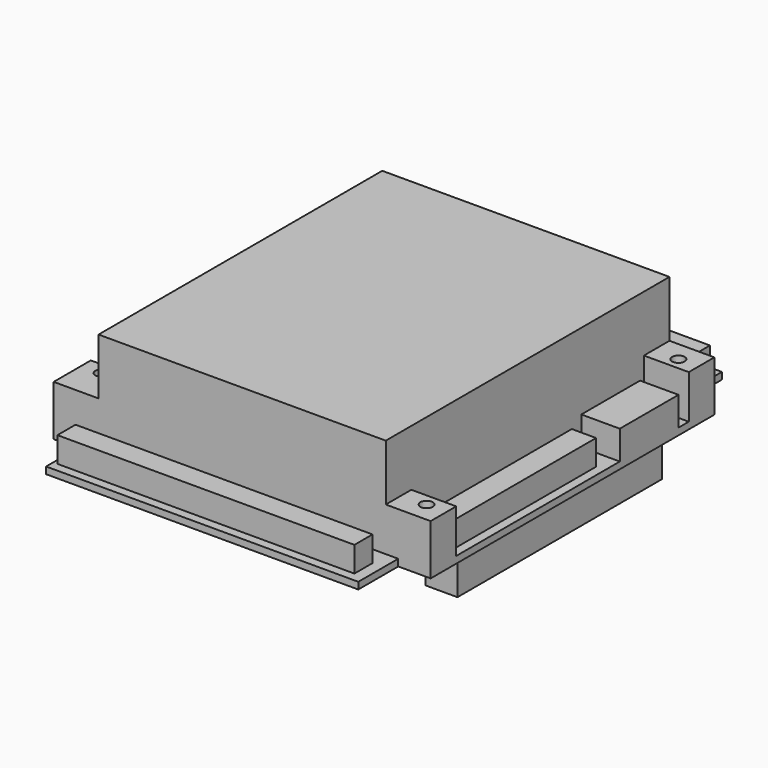
from build123d import *

# Parameters (mm, degrees)
F0_W      = 8.235
F0_H      = 90.17
F0_W_2    = 79.38
F0_H_2    = 12.7
F1_DEPTH  = 1.73
F2_W      = 8.13
F2_H      = 65.02
F3_DEPTH  = 10.42
F4_W      = 2.38
F4_H      = 13.8
F4_H_2    = 7.45
F4_W_2    = 65.44
F4_H_3    = 17.54
F5_DEPTH  = 5.18
F6_W      = 9.3
F6_H      = 30
F7_DEPTH  = 5.58
F8_W      = 73.03
F8_H      = 90.17
F9_DEPTH  = 25.4
F10_W     = 11.41
F10_H     = 8.13
F10_H_2   = 10.54
F10_H_3   = 11.81
F11_DEPTH = 11.1
F12_W     = 75.51
F12_H     = 5.75
F13_DEPTH = 6.43
F14_W     = 5.72
F14_H     = 61.39
F15_DEPTH = 5.57
F16_W     = 77.07
F16_H     = 5.75
F17_DEPTH = 6.43
F18_W     = 6.17
F18_H     = 46.82
F19_DEPTH = 6.43
F20_W     = 9.78
F20_H     = 18.65
F21_DEPTH = 7.35
F22_R     = 1.6
F23_DEPTH = 27.131


with BuildPart() as f1:
    # F0 (on Top) → F1 (new body)
    with BuildSketch(Plane.XY):
        with Locations((43.8075, 0)):
            Rectangle(F0_W, F0_H)
        with Locations((0, -51.435)):
            Rectangle(F0_W_2, F0_H_2)
        Rectangle(F0_W_2, F0_H)
        with Locations((-43.8075, 0)):
            Rectangle(F0_W, F0_H)
        with Locations((0, 51.435)):
            Rectangle(F0_W_2, F0_H_2)
    extrude(amount=F1_DEPTH)

    # F2 (on face) → F3 (join)
    with BuildSketch(Plane(origin=(0, 0, 0), x_dir=(1, 0, 0), z_dir=(0, 0, -1))):
        with Locations((40.56, -0.075)):
            Rectangle(F2_W, F2_H)
    extrude(amount=F3_DEPTH)

    # F4 (on face) → F5 (join)
    with BuildSketch(Plane(origin=(0, 0, 0), x_dir=(1, 0, 0), z_dir=(0, 0, -1))):
        with Locations((-36.21, -39.8490008428)):
            Rectangle(F4_W, F4_H)
        with Locations((-36.21, -50.4740008428)):
            Rectangle(F4_W, F4_H_2)
        with Locations((-2.3, -50.4740008428)):
            Rectangle(F4_W_2, F4_H_2)
        with Locations((31.61, -37.9790008428)):
            Rectangle(F4_W, F4_H_3)
        with Locations((31.61, -50.4740008428)):
            Rectangle(F4_W, F4_H_2)
    extrude(amount=F5_DEPTH)

    # F6 (on face) → F7 (join)
    with BuildSketch(Plane(origin=(0, 0, 0), x_dir=(1, 0, 0), z_dir=(0, 0, -1))):
        with Locations((-32.925, 31.505)):
            Rectangle(F6_W, F6_H)
    extrude(amount=F7_DEPTH)

    # F8 (on face) → F9 (join)
    with BuildSketch(Plane.XY.offset(1.73)):
        Rectangle(F8_W, F8_H)
    extrude(amount=F9_DEPTH)

    # F10 (on face) → F11 (join)
    with BuildSketch(Plane.XY.offset(1.73)):
        with Locations((42.22, 41.02)):
            Rectangle(F10_W, F10_H)
        with Locations((42.22, -41.02)):
            Rectangle(F10_W, F10_H)
        with Locations((-42.22, 39.815)):
            Rectangle(F10_W, F10_H_2)
        with Locations((-42.22, -39.18)):
            Rectangle(F10_W, F10_H_3)
    extrude(amount=F11_DEPTH)

    # F12 (on face) → F13 (join)
    with BuildSketch(Plane.XY.offset(1.73)):
        with Locations((-0.875, -52.63)):
            Rectangle(F12_W, F12_H)
    extrude(amount=F13_DEPTH)

    # F14 (on face) → F15 (join)
    with BuildSketch(Plane.XY.offset(1.73)):
        with Locations((-42.915, 3.25)):
            Rectangle(F14_W, F14_H)
    extrude(amount=F15_DEPTH)

    # F16 (on face) → F17 (join)
    with BuildSketch(Plane.XY.offset(1.73)):
        with Locations((-0.095, 52.67)):
            Rectangle(F16_W, F16_H)
    extrude(amount=F17_DEPTH)

    # F18 (on face) → F19 (join)
    with BuildSketch(Plane.XY.offset(1.73)):
        with Locations((42.56, -13.065)):
            Rectangle(F18_W, F18_H)
    extrude(amount=F19_DEPTH)

    # F20 (on face) → F21 (join)
    with BuildSketch(Plane.XY.offset(1.73)):
        with Locations((43.035, 24.36)):
            Rectangle(F20_W, F20_H)
    extrude(amount=F21_DEPTH)

    # F22 (on face) → F23 (cut, through all)
    with BuildSketch(Plane(origin=(0, 0, 0), x_dir=(1, 0, 0), z_dir=(0, 0, -1))):
        with Locations((42.845, 40.005)):
            Circle(F22_R)
        with Locations((42.845, -40.005)):
            Circle(F22_R)
        with Locations((-42.845, -37.455)):
            Circle(F22_R)
        with Locations((-42.845, 36.185)):
            Circle(F22_R)
    extrude(amount=-F23_DEPTH, mode=Mode.SUBTRACT)


solid = f1.part
